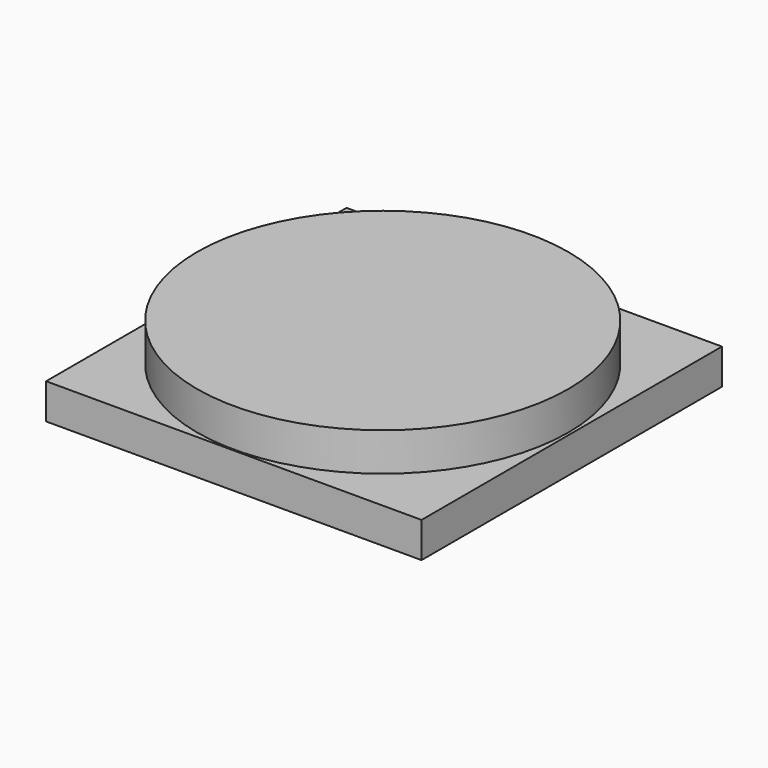
from build123d import *

# Parameters (mm, degrees)
BOX_W          = 132.5
BOX_H          = 132.5
BOX_DEPTH      = 12.5
CYLINDER_R     = 65.5
CYLINDER_DEPTH = 20


with BuildPart() as cube:
    # Box → Box (new body)
    with BuildSketch(Plane.XY):
        with Locations((66.25, 66.25)):
            Rectangle(BOX_W, BOX_H)
    extrude(amount=BOX_DEPTH)


with BuildPart() as cylinder:
    # Cylinder → Cylinder (new body)
    with BuildSketch(Plane(origin=(66, 66, 6), x_dir=(1, 0, 0), z_dir=(0, 0, 1))):
        Circle(CYLINDER_R)
    extrude(amount=CYLINDER_DEPTH)


solid = Compound([cube.part, cylinder.part])
